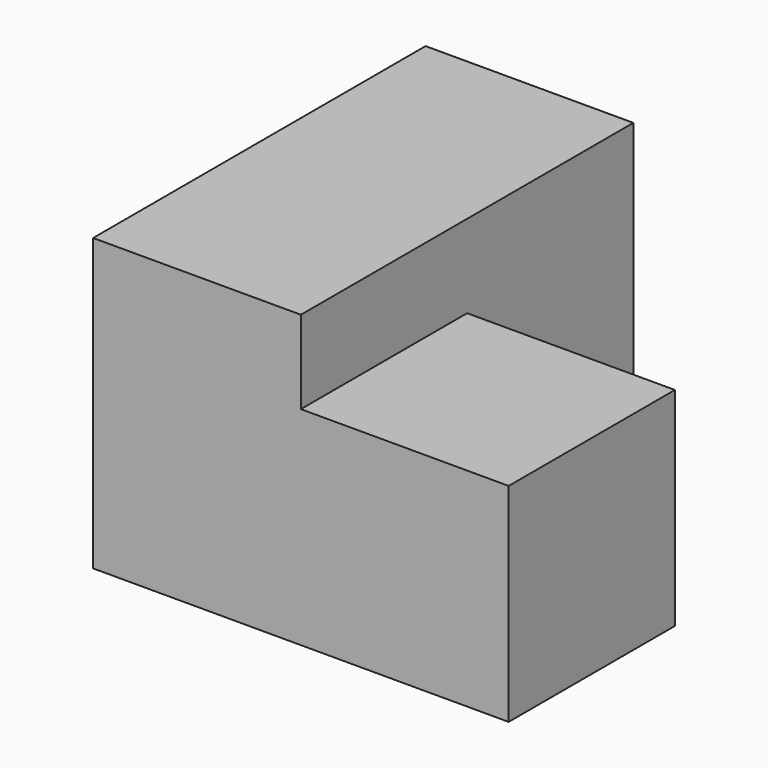
from build123d import *

# Parameters (mm, degrees)
BOX001_W     = 10
BOX001_H     = 10
BOX001_DEPTH = 10
BOX_W        = 10
BOX_H        = 20
BOX_DEPTH    = 14


with BuildPart() as cubo2:
    # Box001 → Box001 (new body)
    with BuildSketch(Plane(origin=(10, 0, 0), x_dir=(1, 0, 0), z_dir=(0, 0, 1))):
        with Locations((5, 5)):
            Rectangle(BOX001_W, BOX001_H)
    extrude(amount=BOX001_DEPTH)


with BuildPart() as fusion:
    # Box → Box (new body)
    with BuildSketch(Plane.XY):
        with Locations((5, 10)):
            Rectangle(BOX_W, BOX_H)
    extrude(amount=BOX_DEPTH)

    # Fusion: union cubo2
    add(cubo2.part)


solid = fusion.part
